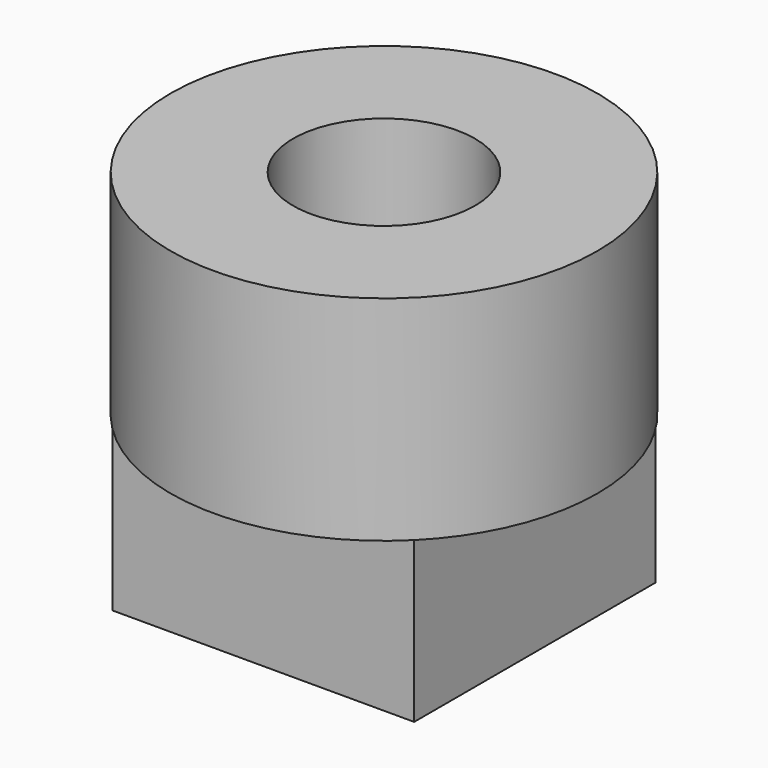
from build123d import *

# Parameters (mm, degrees)
F0_R     = 3.175
F1_DEPTH = 3.175
F2_W     = 4.490128
F2_H     = 4.490128
F3_DEPTH = 2.38125
F4_R     = 1.35255
F5_DEPTH = 6.35


with BuildPart() as f1:
    # F0 (on Top) → F1 (new body)
    with BuildSketch(Plane.XY):
        Circle(F0_R)
    extrude(amount=F1_DEPTH)

    # F2 (on face) → F3 (join)
    with BuildSketch(Plane(origin=(0, 0, 0), x_dir=(1, 0, 0), z_dir=(0, 0, -1))):
        Rectangle(F2_W, F2_H)
    extrude(amount=F3_DEPTH)

    # F4 (on face) → F5 (cut)
    with BuildSketch(Plane(origin=(0, 0, -2.38125), x_dir=(1, 0, 0), z_dir=(0, 0, -1))):
        Circle(F4_R)
    extrude(amount=-F5_DEPTH, mode=Mode.SUBTRACT)


solid = f1.part
